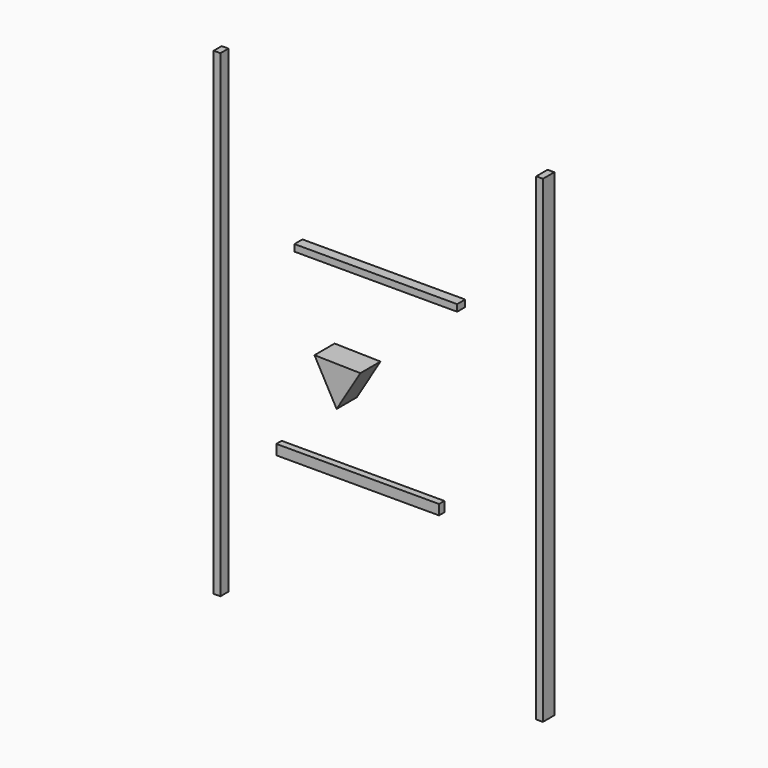
from build123d import *

# Parameters (mm, degrees)
F0_W      = 40
F0_H      = 2850
F1_DEPTH  = 60
F2_W      = 970
F2_H      = 40
F3_DEPTH  = 60
F4_W      = 40
F4_H      = 2850
F5_DEPTH  = 60
F6_W      = 970
F6_H      = 60
F7_DEPTH  = 40
F5_FACE_W = 40
F5_FACE_H = 2850
F8_DEPTH  = 25
F10_DEPTH = 150


with BuildPart() as f1:
    # F0 (on Front) → F1 (new body)
    with BuildSketch(Plane.XZ):
        with Locations((-873.495248, -3.245134)):
            Rectangle(F0_W, F0_H)
    extrude(amount=-F1_DEPTH)


with BuildPart() as f3:
    # F2 (on Front) → F3 (new body)
    with BuildSketch(Plane.XZ):
        with Locations((120.735884, 583.960645)):
            Rectangle(F2_W, F2_H)
    extrude(amount=F3_DEPTH)


with BuildPart() as f5:
    # F4 (on Front) → F5 (new body)
    with BuildSketch(Plane.XZ):
        with Locations((1116.921908, 19.650698)):
            Rectangle(F4_W, F4_H)
    extrude(amount=F5_DEPTH)

    # F5_face (on face) → F8 (join)
    with BuildSketch(Plane(origin=(1116.921908, -60, 19.650698), x_dir=(1, 0, 0), z_dir=(0, -1, 0))):
        Rectangle(F5_FACE_W, F5_FACE_H)
    extrude(amount=F8_DEPTH)


with BuildPart() as f7:
    # F6 (on Front) → F7 (new body)
    with BuildSketch(Plane.XZ):
        with Locations((-3.508284, -523.232728)):
            Rectangle(F6_W, F6_H)
    extrude(amount=F7_DEPTH)


with BuildPart() as f10:
    # F9 (on Front) → F10 (new body)
    with BuildSketch(Plane.XZ):
        Polygon((-172.632586, 119.835994), (-40.745486, -119.835994), (100.872993, 114.217579), align=None)
    extrude(amount=F10_DEPTH)


solid = Compound([f1.part, f3.part, f5.part, f7.part, f10.part])
